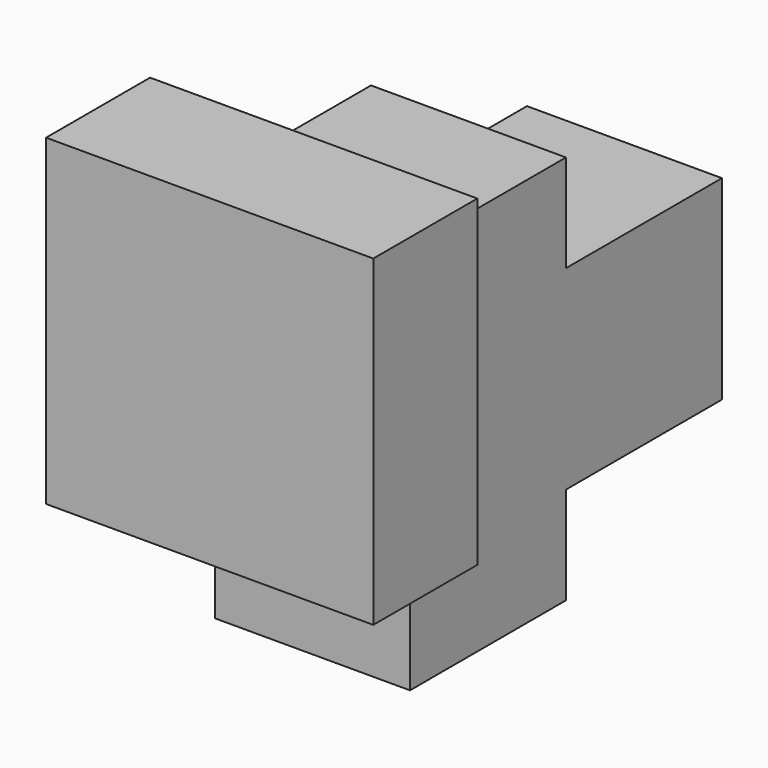
from build123d import *

# Parameters (mm, degrees)
F0_W      = 76.2
F0_H      = 76.2
F1_DEPTH  = 76.2
F2_W      = 25.4
F2_H      = 25.4
F3_DEPTH  = 25.4
F4_W      = 127.8971601269
F4_H      = 126.0540452983
F4_W_2    = 76.2
F4_H_2    = 76.2
F4_W_3    = 25.4
F4_H_3    = 25.4
F5_DEPTH  = 50.8
F6_W      = 25.4
F6_H      = 25.4
F7_DEPTH  = 25.4
F8_DEPTH  = 76.2
F9_W      = 76.2
F9_H      = 38.1
F10_DEPTH = 76.2


with BuildPart() as f1:
    # F0 (on Top) → F1 (new body)
    with BuildSketch(Plane.XY):
        with Locations((38.1, 38.1)):
            Rectangle(F0_W, F0_H)
    extrude(amount=F1_DEPTH)

    # F2 (on face) → F3 (join)
    with BuildSketch(Plane.XZ):
        with Locations((38.1, 38.1)):
            Rectangle(F2_W, F2_H)
    extrude(amount=F3_DEPTH)


with BuildPart() as f5:
    # F4 (on face) → F5 (new body)
    with BuildSketch(Plane.XZ):
        with Locations((38.5524157531, 38.5691416612)):
            Rectangle(F4_W, F4_H)
        with Locations((38.1, 38.1)):
            Rectangle(F4_W_2, F4_H_2, mode=Mode.SUBTRACT)
        with Locations((38.1, 38.1)):
            Rectangle(F4_W_2, F4_H_2)
        with Locations((38.1, 38.1)):
            Rectangle(F4_W_3, F4_H_3, mode=Mode.SUBTRACT)
    extrude(amount=F5_DEPTH)

    # F6 (on face) → F7 (join)
    with BuildSketch(Plane.YZ.offset(25.4)):
        with Locations((-38.1, 38.1)):
            Rectangle(F6_W, F6_H)
    extrude(amount=F7_DEPTH)


with BuildPart() as f8:
    # F8 (new): a face of the model
    f8_faces = [f1.part.faces().sort_by_distance(p)[0] for p in [
        (38.1, 38.1, 0),
    ]]
    extrude(f8_faces, amount=F8_DEPTH)


with BuildPart() as f1_1:
    add(f1.part)

    add(f8.part)  # F10 merges F8
    # F9 (on face) → F10 (join)
    with BuildSketch(Plane(origin=(0, 76.2, 0), x_dir=(-1, 0, 0), z_dir=(0, 1, 0))):
        with Locations((-38.1, -19.05)):
            Rectangle(F9_W, F9_H)
        with Locations((-38.1, 19.05)):
            Rectangle(F9_W, F9_H)
    extrude(amount=F10_DEPTH)


solid = Compound([f5.part, f1_1.part])
